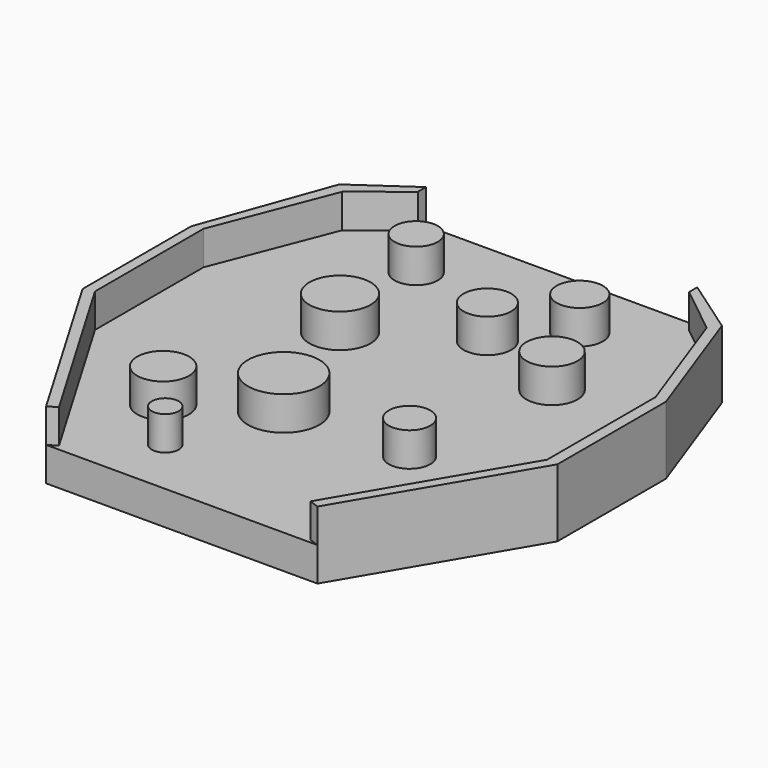
from build123d import *

# Parameters (mm, degrees)
F1_DEPTH = 2.5
F2_R     = 3.1867202998
F2_R_2   = 3.7755179731
F2_R_3   = 3.0551309049
F2_R_4   = 3.8245534148
F2_R_5   = 1.9841844708
F2_R_6   = 4.5067047705
F2_R_7   = 3.412603706
F2_R_8   = 3.5204745869
F2_R_9   = 5.26912984
F3_DEPTH = 5


with BuildPart() as f1:
    # F0 (on Top) → F1 (new body, symmetric)
    with BuildSketch(Plane.XY):
        Polygon((-28.2061724393, 29.2852179485), (0, 0), (-20, 35), align=None)
        Polygon((-20, 35), (0, 0), (20, 35), align=None)
        Polygon((20, 35), (0, 0), (28.2061724393, 29.2852179485), align=None)
        Polygon((28.2061724393, 29.2852179485), (0, 0), (35, 10.4744788063), align=None)
        Polygon((0, 0), (35, -9.5255211937), (35, 10.4744788063), align=None)
        Polygon((0, 0), (20, -35), (35, -9.5255211937), align=None)
        Polygon((-20, -35), (20, -35), (0, 0), align=None)
        Polygon((-35, -9.5255211937), (-20, -35), (0, 0), align=None)
        Polygon((-35, -9.5255211937), (0, 0), (-35, 10.4744788063), align=None)
        Polygon((-35, 10.4744788063), (0, 0), (-28.2061724393, 29.2852179485), align=None)
    extrude(amount=F1_DEPTH, both=True)

    # F2 (on face) → F3 (join)
    with BuildSketch(Plane.XY.offset(2.5)):
        with Locations((-13.5828489438, 25.1816865057)):
            Circle(F2_R)
        with Locations((16.9404093176, 12.0566859841)):
            Circle(F2_R_2)
        with Locations((14.4985457882, -11.1409882084)):
            Circle(F2_R_3)
        with Locations((-15.7194770873, -18.7718030065)):
            Circle(F2_R_4)
        with Locations((-9.3095935881, -26.402618736)):
            Circle(F2_R_5)
        with Locations((-11.1409891397, 8.0886632204)):
            Circle(F2_R_6)
        with Locations((10.5305230245, 25.1816865057)):
            Circle(F2_R_7)
        with Locations((3.5101757385, 16.940407455)):
            Circle(F2_R_8)
        with Locations((-3.8154073991, -11.4462208003)):
            Circle(F2_R_9)
        Polygon((-20, 35), (-28.2061724393, 29.2852179485), (-26.8015696019, 28.067638371), (-20, 33.5), align=None)
        Polygon((27.1522455229, 27.7875561946), (28.2061724393, 29.2852179485), (20, 35), (20, 33.5), align=None)
        Polygon((33.3497032022, 10.6280450489), (35, 10.4744788063), (28.2061724393, 29.2852179485), (27.1522455229, 27.7875561946), align=None)
        Polygon((33.3497032022, -9.3719549511), (35, -9.5255211937), (35, 10.4744788063), (33.3497032022, 10.6280450489), align=None)
        Polygon((18.5590703823, -34.4908657712), (20, -35), (35, -9.5255211937), (33.3497032022, -9.3719549511), align=None)
        Polygon((-35, -9.5255211937), (-20, -35), (-18.7074316902, -34.2389039715), (-33.5, -9.1167061117), align=None)
        Polygon((-35, 10.4744788063), (-35, -9.5255211937), (-33.5, -9.1167061117), (-33.5, 10.8832938883), align=None)
        Polygon((-28.2061724393, 29.2852179485), (-35, 10.4744788063), (-33.5, 10.8832938883), (-26.8015696019, 28.067638371), align=None)
    extrude(amount=F3_DEPTH)


solid = f1.part
